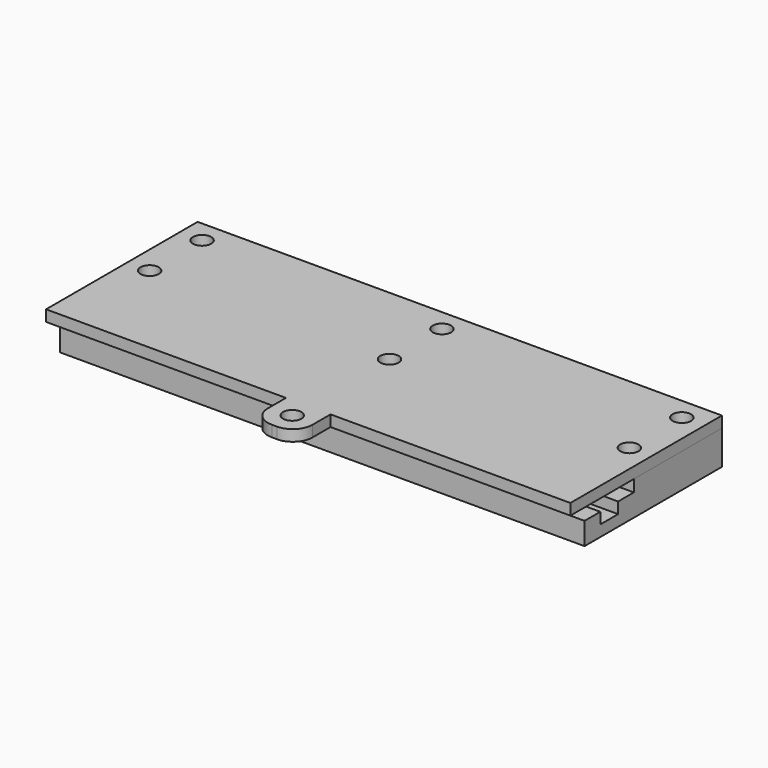
from build123d import *

# Parameters (mm, degrees)
F1_DEPTH = 101.6
F2_R     = 1.778
F3_DEPTH = 6.605
F5_DEPTH = 101.6
F6_R     = 1.778
F7_DEPTH = 2.16
F8_W     = 8.636
F8_H     = 8.1915
F8_R     = 1.778
F9_DEPTH = 2.159
F10_R    = 3.81


with BuildPart() as f1:
    # F0 (on Right) → F1 (new body)
    with BuildSketch(Plane.YZ):
        Polygon((-6.446921, 0), (-6.446921, -4.318), (26.827079, -4.318), (26.827079, 0), (26.827079, 2.286), (5.491079, 2.286), (5.491079, 0), (1.681079, 0), (1.681079, -2.159), (-2.636921, -2.159), (-2.636921, 0), align=None)
    extrude(amount=F1_DEPTH)

    # F2 (on face) → F3 (cut, through all)
    with BuildSketch(Plane.XY.offset(2.286)):
        with Locations((97.282, 9.809079)):
            Circle(F2_R)
        with Locations((97.282, 22.509079)):
            Circle(F2_R)
        with Locations((4.318, 9.809079)):
            Circle(F2_R)
        with Locations((4.318, 22.509079)):
            Circle(F2_R)
        with Locations((50.8, 9.809079)):
            Circle(F2_R)
        with Locations((50.8, 22.509079)):
            Circle(F2_R)
    extrude(amount=-F3_DEPTH, mode=Mode.SUBTRACT)


with BuildPart() as f5:
    # F4 (on Right) → F5 (new body, through all)
    with BuildSketch(Plane.YZ):
        Polygon((-9.875921, 4.445), (-9.875921, 2.286), (5.491079, 2.286), (26.827079, 2.286), (26.827079, 4.445), align=None)
    extrude(amount=F5_DEPTH)

    # F6 (on face) → F7 (cut, through all)
    with BuildSketch(Plane(origin=(0, 0, 2.286), x_dir=(1, 0, 0), z_dir=(0, 0, -1))):
        with Locations((97.282, -9.809079)):
            Circle(F6_R)
        with Locations((50.8, -9.809079)):
            Circle(F6_R)
        with Locations((4.318, -9.809079)):
            Circle(F6_R)
        with Locations((4.318, -22.509079)):
            Circle(F6_R)
        with Locations((50.8, -22.509079)):
            Circle(F6_R)
        with Locations((97.282, -22.509079)):
            Circle(F6_R)
    extrude(amount=-F7_DEPTH, mode=Mode.SUBTRACT)

    # F8 (on face) → F9 (join, through all)
    with BuildSketch(Plane.XY.offset(4.445)):
        with Locations((50.8, -13.971671)):
            Rectangle(F8_W, F8_H)
        with Locations((50.8, -13.749421)):
            Circle(F8_R, mode=Mode.SUBTRACT)
    extrude(amount=-F9_DEPTH)

    # F10
    f10_edges = [f5.edges().sort_by_distance(p)[0] for p in [
        (55.118, -18.067421, 3.3655),
        (46.482, -18.067421, 3.3655),
    ]]
    fillet(f10_edges, radius=F10_R)


solid = Compound([f1.part, f5.part])
